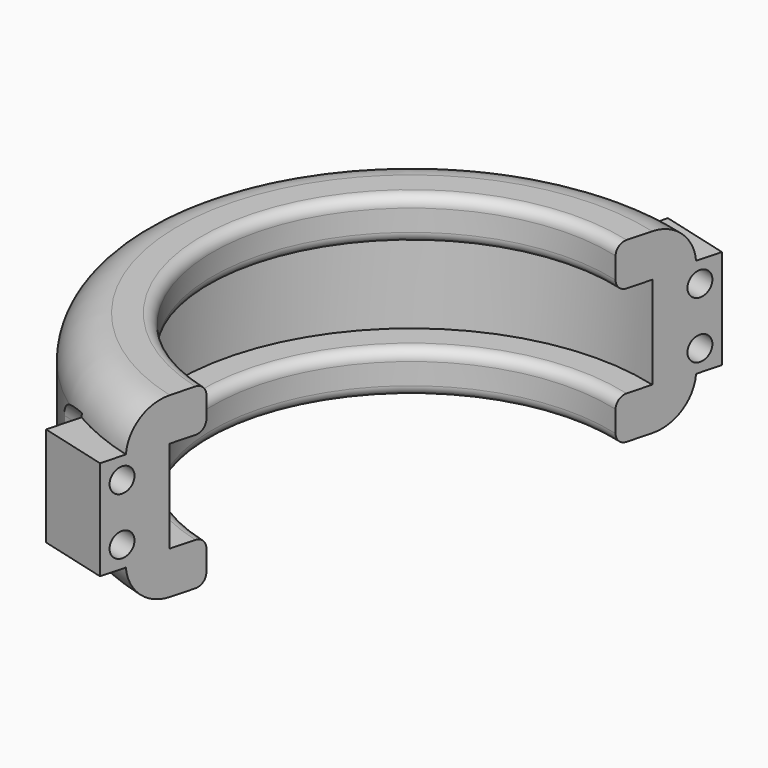
from build123d import *

# Parameters (mm, degrees)
REVOLUTION007_ANGLE     = 180
SKETCH064_W             = 14
SKETCH064_H             = 6
PAD026_DEPTH            = 10
SKETCH063_R             = 1.7
POCKET007_DEPTH         = 38.901
POCKET008_DEPTH         = 28.901
BODY015_PLACEMENT_ANGLE = 75


with BuildPart() as part:
    # Sketch062 → Revolution007 (revolve, symmetric)
    with BuildSketch(Plane.YZ) as revolution007_sk:
        with BuildLine():
            Line((32.9, 0), (32.9, 6.5))
            Line((32.9, 6.5), (29.4, 6.5))
            ThreePointArc((27.9, 8), (28.33934, 6.93934), (29.4, 6.5))
            Line((27.9, 8), (27.9, 11))
            ThreePointArc((29.4, 12.5), (28.33934, 12.06066), (27.9, 11))
            Line((29.4, 12.5), (32.9, 12.5))
            ThreePointArc((38.9, 6.5), (37.142641, 10.742641), (32.9, 12.5))
            Line((38.9, 6.5), (38.9, 0))
            Line((38.9, 0), (38.9, -6.5))
            ThreePointArc((32.9, -12.5), (37.142641, -10.742641), (38.9, -6.5))
            Line((32.9, -12.5), (29.4, -12.5))
            ThreePointArc((27.9, -11), (28.33934, -12.06066), (29.4, -12.5))
            Line((27.9, -11), (27.9, -8))
            ThreePointArc((29.4, -6.5), (28.33934, -6.93934), (27.9, -8))
            Line((29.4, -6.5), (32.9, -6.5))
            Line((32.9, -6.5), (32.9, 0))
        make_face()
    revolve(axis=Axis((0, 0, 0), (0, 0, 1)), revolution_arc=REVOLUTION007_ANGLE / 2)
    revolve(revolution007_sk.sketch, axis=Axis((0, 0, 0), (0, 0, -1)), revolution_arc=REVOLUTION007_ANGLE / 2)

    # Sketch064 (on Face18 of Revolution007) → Pad026 (new body)
    with BuildSketch(Plane(origin=(0, 0, 0), x_dir=(0, 0, -1), z_dir=(0, -1, 0))):
        with Locations((0, 39.4)):
            Rectangle(SKETCH064_W, SKETCH064_H)
        with Locations((0, -39.4)):
            Rectangle(SKETCH064_W, SKETCH064_H)
    extrude(amount=-PAD026_DEPTH)

    # Sketch063 (on Face18 of Revolution007) → Pocket007 (cut, through all)
    with BuildSketch(Plane(origin=(0, 0, 0), x_dir=(0, 0, -1), z_dir=(0, -1, 0))):
        with Locations((4, 39.4)):
            Circle(SKETCH063_R)
        with Locations((-4, 39.4)):
            Circle(SKETCH063_R)
        with Locations((-4, -39.4)):
            Circle(SKETCH063_R)
        with Locations((4, -39.4)):
            Circle(SKETCH063_R)
    extrude(amount=-POCKET007_DEPTH, mode=Mode.SUBTRACT)

    # Sketch065 (on Face22 of Pocket007) → Pocket008 (cut, through all)
    with BuildSketch(Plane.ZX.offset(10)):
        with BuildLine():
            Line((-4, 43.4), (4.000001, 43.4))
            ThreePointArc((4.000001, 35.4), (8, 39.4), (4.000001, 43.4))
            Line((-4, 35.4), (4.000001, 35.4))
            ThreePointArc((-4, 43.4), (-8, 39.4), (-4, 35.4))
        make_face()
        with BuildLine():
            Line((-4, -35.4), (4, -35.4))
            ThreePointArc((4, -43.4), (8, -39.4), (4, -35.4))
            Line((-4, -43.4), (4, -43.4))
            ThreePointArc((-4, -35.4), (-8, -39.4), (-4, -43.4))
        make_face()
    extrude(amount=POCKET008_DEPTH, mode=Mode.SUBTRACT)


with BuildPart() as part_1:
    # Body015 placement: moved
    add(part.part.moved(Location((0, 0, -90.5))).rotate(Axis((0, 0, -90.5), (0, 0, 1)), BODY015_PLACEMENT_ANGLE))


solid = part_1.part
